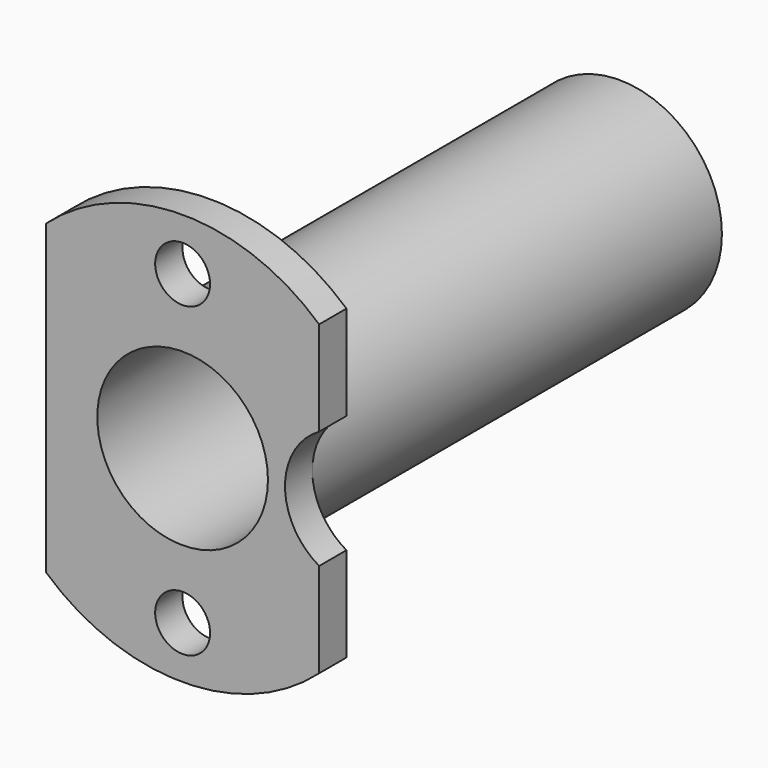
from build123d import *

# Parameters (mm, degrees)
F1_DEPTH = 3.175
F2_R     = 2.5527
F2_R_2   = 7.9375
F3_DEPTH = 3.176
F4_R     = 9.525
F4_R_2   = 7.9375
F5_DEPTH = 50.8


with BuildPart() as f1:
    # F0 (on Front) → F1 (new body)
    with BuildSketch(Plane.XZ):
        with BuildLine():
            Line((0, 28.575), (0, 0))
            ThreePointArc((0, 0), (12.7, -4.850968), (25.4, 0))
            Line((25.4, 0), (25.4, 28.575))
            ThreePointArc((25.4, 28.575), (12.7, 33.425968), (0, 28.575))
        make_face()
    extrude(amount=-F1_DEPTH)

    # F2 (on face) → F3 (cut, through all)
    with BuildSketch(Plane.XZ):
        with Locations((12.7, 28.575)):
            Circle(F2_R)
        with Locations((12.7, 0)):
            Circle(F2_R)
        with Locations((12.7, 14.2875)):
            Circle(F2_R_2)
        with BuildLine():
            ThreePointArc((25.4, 19.786761), (22.225, 14.2875), (25.4, 8.788239))
            Line((25.4, 8.788239), (25.4, 19.786761))
        make_face()
    extrude(amount=-F3_DEPTH, mode=Mode.SUBTRACT)

    # F4 (on face) → F5 (join)
    with BuildSketch(Plane.XZ):
        with Locations((12.7, 14.2875)):
            Circle(F4_R)
        with Locations((12.7, 14.2875)):
            Circle(F4_R_2, mode=Mode.SUBTRACT)
    extrude(amount=-F5_DEPTH)


solid = f1.part
